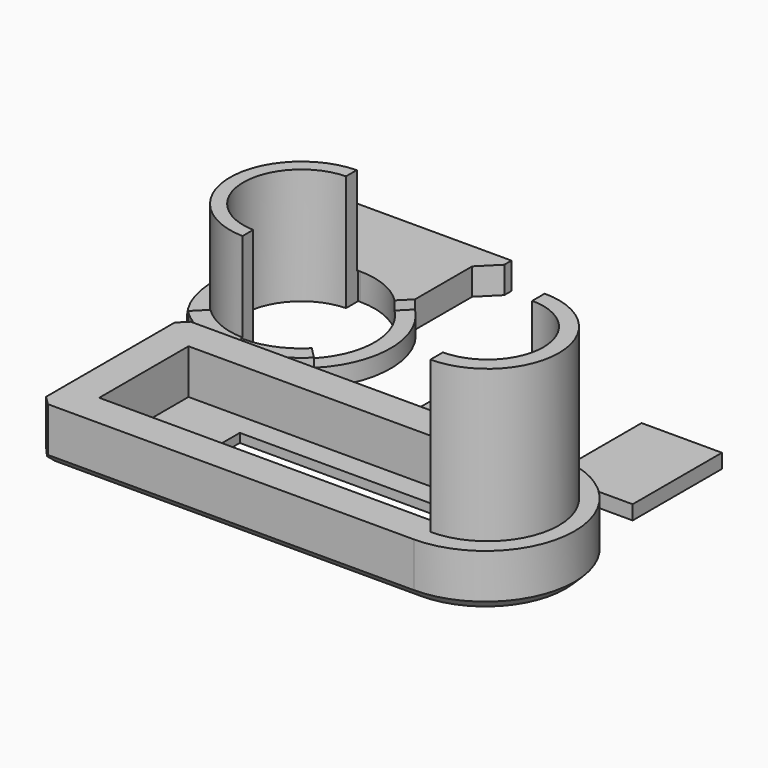
from build123d import *

# Parameters (mm, degrees)
SKETCH_W        = 3
SKETCH_H        = 12.5
PAD_DEPTH       = 1.6
SKETCH002_W     = 9
SKETCH002_H     = 12.5
PAD001_DEPTH    = 1.6
PAD004_DEPTH    = 6
SKETCH008_W     = 38.5
SKETCH008_H     = 12.5
POCKET003_DEPTH = 5
SKETCH010_W     = 23.5
SKETCH010_H     = 7
POCKET004_DEPTH = 1
PAD005_DEPTH    = 17
POCKET005_DEPTH = 17
CHAMFER_SIZE    = 1
CHAMFER001_SIZE = 1
CHAMFER002_SIZE = 1
SKETCH003_R     = 10
PAD002_DEPTH    = 3
POCKET_DEPTH    = 1
SKETCH005_R     = 8
POCKET001_DEPTH = 5
PAD003_DEPTH    = 13
POCKET002_DEPTH = 20
PAD006_DEPTH    = 3


with BuildPart() as brace_narrow:
    # Sketch → Pad (new body)
    with BuildSketch(Plane.XY):
        Rectangle(SKETCH_W, SKETCH_H)
    extrude(amount=PAD_DEPTH)


with BuildPart() as brace_narrow_1:
    # Body placement: moved
    add(brace_narrow.part.moved(Location((0, 20, 0))))


with BuildPart() as brace_wide:
    # Sketch002 → Pad001 (new body)
    with BuildSketch(Plane.XY):
        Rectangle(SKETCH002_W, SKETCH002_H)
    extrude(amount=PAD001_DEPTH)


with BuildPart() as brace_wide_1:
    # Body001 placement: moved
    add(brace_wide.part.moved(Location((20, 20, 0))))


with BuildPart() as body:
    # Sketch009 → Pad004 (new body)
    with BuildSketch(Plane.XY):
        with BuildLine():
            Line((-23, 10), (-23, -10))
            Line((-23, -10), (19, -10))
            ThreePointArc((19, -10), (29, 0), (19, 10))
            Line((-23, 10), (19, 10))
        make_face()
    extrude(amount=PAD004_DEPTH)

    # Sketch008 (on Face6 of Pad004) → Pocket003 (cut)
    with BuildSketch(Plane.XY.offset(6)):
        Rectangle(SKETCH008_W, SKETCH008_H)
    extrude(amount=-POCKET003_DEPTH, mode=Mode.SUBTRACT)

    # Sketch010 (on Face11 of Pocket003) → Pocket004 (cut)
    with BuildSketch(Plane.XY.offset(1)):
        with Locations((0.25, 0.25)):
            Rectangle(SKETCH010_W, SKETCH010_H)
    extrude(amount=-POCKET004_DEPTH, mode=Mode.SUBTRACT)

    # Sketch011 (on Face5 of Pocket004) → Pad005 (join)
    with BuildSketch(Plane.XY.offset(6)):
        with BuildLine():
            Line((19.25, 8), (19.25, -8))
            ThreePointArc((19.25, -8), (27.25, 0), (19.25, 8))
        make_face()
    extrude(amount=PAD005_DEPTH)

    # Sketch012 (on Face16 of Pad005) → Pocket005 (cut)
    with BuildSketch(Plane.XY.offset(23)):
        with BuildLine():
            Line((19.25, -6.25), (19.25, 6.25))
            ThreePointArc((19.25, -6.25), (25.5, 0), (19.25, 6.25))
        make_face()
    extrude(amount=-POCKET005_DEPTH, mode=Mode.SUBTRACT)

    # Chamfer
    chamfer_edges = [body.edges().sort_by_distance(p)[0] for p in [
        (-2, -10, 0),
    ]]
    chamfer(chamfer_edges, length=CHAMFER_SIZE)

    # Chamfer001
    chamfer001_edges = [body.edges().sort_by_distance(p)[0] for p in [
        (-23, 0, 0),
    ]]
    chamfer(chamfer001_edges, length=CHAMFER001_SIZE)

    # Chamfer002
    chamfer002_edges = [body.edges().sort_by_distance(p)[0] for p in [
        (-23, 10, 3.5),
        (-23, -10, 3.5),
    ]]
    chamfer(chamfer002_edges, length=CHAMFER002_SIZE)


with BuildPart() as ring:
    # Sketch003 → Pad002 (new body)
    with BuildSketch(Plane.XY):
        Circle(SKETCH003_R)
    extrude(amount=PAD002_DEPTH)

    # Sketch004 (on Face3 of Pad002) → Pocket (cut)
    with BuildSketch(Plane.XY.offset(3)):
        with BuildLine():
            Line((0, 0), (7.071068, 7.071068))
            ThreePointArc((7.071068, -7.071068), (10, 0), (7.071068, 7.071068))
            Line((0, 0), (7.071068, -7.071068))
        make_face()
        with BuildLine():
            ThreePointArc((-7.071068, 7.071068), (-10, 0), (-7.071068, -7.071068))
            Line((0, 0), (-7.071068, -7.071068))
            Line((0, 0), (-7.071068, 7.071068))
        make_face()
    extrude(amount=-POCKET_DEPTH, mode=Mode.SUBTRACT)

    # Sketch005 (on Face9 of Pocket) → Pocket001 (cut)
    with BuildSketch(Plane.XY.offset(3)):
        Circle(SKETCH005_R)
    extrude(amount=-POCKET001_DEPTH, mode=Mode.SUBTRACT)

    # Sketch006 → Pad003 (join)
    with BuildSketch(Plane.XY):
        with BuildLine():
            Line((0, 6.5), (0, 8))
            ThreePointArc((0, 8), (-8, 0), (0, -8))
            Line((0, -6.5), (0, -8))
            ThreePointArc((0, 6.5), (-6.5, 0), (0, -6.5))
        make_face()
    extrude(amount=PAD003_DEPTH)

    # Sketch007 (on Face14 of Pad003) → Pocket002 (cut)
    with BuildSketch(Plane.XY.offset(13)):
        with BuildLine():
            ThreePointArc((0, -8.2), (8.2, 0), (0, 8.2))
            Line((0, 8.2), (-0.2, 8.2))
            Line((-0.2, -8.2), (-0.2, 8.2))
            Line((0, -8.2), (-0.2, -8.2))
        make_face()
    extrude(amount=-POCKET002_DEPTH, mode=Mode.SUBTRACT)

    # Sketch013 → Pad006 (join)
    with BuildSketch(Plane.XY):
        with BuildLine():
            Line((-7.071068, 7.071068), (-7.071068, 15.071068))
            Line((-7.071068, 15.071068), (-9.071068, 17.071068))
            Line((-9.071068, 18.071068), (-9.071068, 17.071068))
            Line((-9.071068, 18.071068), (9.071068, 18.071068))
            Line((9.071068, 18.071068), (9.071068, 17.071068))
            Line((9.071068, 17.071068), (7.071068, 15.071068))
            Line((7.071068, 7.071068), (7.071068, 15.071068))
            ThreePointArc((7.071068, 7.071068), (0, 10), (-7.071068, 7.071068))
        make_face()
    extrude(amount=PAD006_DEPTH)


with BuildPart() as ring_1:
    # Body003 placement: moved
    add(ring.part.moved(Location((-20, 23, 0))))


solid = Compound([brace_narrow_1.part, brace_wide_1.part, body.part, ring_1.part])
